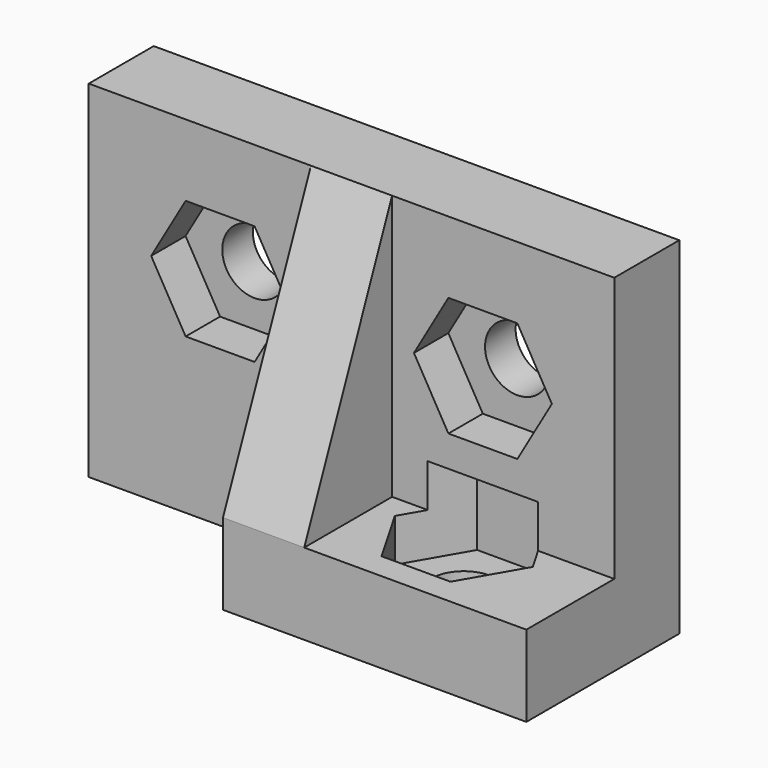
from build123d import *

# Parameters (mm, degrees)
EXTRUDE003_DEPTH  = 3.6
CYLINDER002_R     = 1.35
CYLINDER002_DEPTH = 3.4
EXTRUDE002_DEPTH  = 1.8
CYLINDER003_R     = 1.35
CYLINDER003_DEPTH = 3.4
EXTRUDE001_DEPTH  = 1.8
CYLINDER_R        = 1.35
CYLINDER_DEPTH    = 3.4
BOX_W             = 22
BOX_H             = 3.4
BOX_DEPTH         = 14.5
BOX001_W          = 12.7
BOX001_H          = 4.6
BOX001_DEPTH      = 3.4
EXTRUDE_DEPTH     = 3.4


with BuildPart() as extrude003:
    # Sketch003 → Extrude003 (new body)
    with BuildSketch(Plane(origin=(16.5, -1, 1.6), x_dir=(1, 0, 0), z_dir=(0, 0, 1))):
        Polygon((2.8868, 0), (1.4434, 2.500042), (-1.4434, 2.500042), (-2.8868, 0), (-1.4434, -2.500042), (1.4434, -2.500042), align=None)
    extrude(amount=EXTRUDE003_DEPTH)


with BuildPart() as hole03:
    # Cylinder002 → Cylinder002 (new body)
    with BuildSketch(Plane(origin=(16.5, -1, 0), x_dir=(0, 1, 0), z_dir=(0, 0, 1))):
        Circle(CYLINDER002_R)
    extrude(amount=CYLINDER002_DEPTH)

    # Fusion002: union Extrude003
    add(extrude003.part)


with BuildPart() as extrude002:
    # Sketch002 → Extrude002 (new body)
    with BuildSketch(Plane(origin=(16.5, 1.8, 9), x_dir=(1, 0, 0), z_dir=(0, -1, 0))):
        Polygon((2.8868, 0), (1.4434, 2.500042), (-1.4434, 2.500042), (-2.8868, 0), (-1.4434, -2.500042), (1.4434, -2.500042), align=None)
    extrude(amount=EXTRUDE002_DEPTH)


with BuildPart() as hole02:
    # Cylinder003 → Cylinder003 (new body)
    with BuildSketch(Plane(origin=(16.5, 3.4, 9), x_dir=(1, 0, 0), z_dir=(0, -1, 0))):
        Circle(CYLINDER003_R)
    extrude(amount=CYLINDER003_DEPTH)

    # Fusion001: union Extrude002
    add(extrude002.part)


with BuildPart() as extrude001:
    # Sketch001 → Extrude001 (new body)
    with BuildSketch(Plane(origin=(5.5, 1.8, 9), x_dir=(1, 0, 0), z_dir=(0, -1, 0))):
        Polygon((2.8868, 0), (1.4434, 2.500042), (-1.4434, 2.500042), (-2.8868, 0), (-1.4434, -2.500042), (1.4434, -2.500042), align=None)
    extrude(amount=EXTRUDE001_DEPTH)


with BuildPart() as hole01:
    # Cylinder → Cylinder (new body)
    with BuildSketch(Plane(origin=(5.5, 3.4, 9), x_dir=(1, 0, 0), z_dir=(0, -1, 0))):
        Circle(CYLINDER_R)
    extrude(amount=CYLINDER_DEPTH)

    # Fusion: union Extrude001
    add(extrude001.part)


with BuildPart() as cut001:
    # Box → Box (new body)
    with BuildSketch(Plane.XY):
        with Locations((11, 1.7)):
            Rectangle(BOX_W, BOX_H)
    extrude(amount=BOX_DEPTH)

    # Cut: cut Hole01
    add(hole01.part, mode=Mode.SUBTRACT)

    # Cut001: cut Hole02
    add(hole02.part, mode=Mode.SUBTRACT)


with BuildPart() as cut002:
    # Box001 → Box001 (new body)
    with BuildSketch(Plane(origin=(9.3, -4.6, 0), x_dir=(1, 0, 0), z_dir=(0, 0, 1))):
        with Locations((6.35, 2.3)):
            Rectangle(BOX001_W, BOX001_H)
    extrude(amount=BOX001_DEPTH)

    # Fusion003: union Cut001
    add(cut001.part)

    # Cut002: cut Hole03
    add(hole03.part, mode=Mode.SUBTRACT)


with BuildPart() as right_hand_bracket:
    # Sketch → Extrude (new body)
    with BuildSketch(Plane(origin=(0, 0, 3.4), x_dir=(0, 1, 0), z_dir=(1, 0, 0))):
        Polygon((0, 11.1), (0, 0), (-4.6, 0), align=None)
    extrude(amount=EXTRUDE_DEPTH)


with BuildPart() as right_hand_bracket_1:
    # Extrude placement: moved
    add(right_hand_bracket.part.moved(Location((9.3, 0, 0))))

    # Fusion004: union Cut002
    add(cut002.part)


solid = right_hand_bracket_1.part
